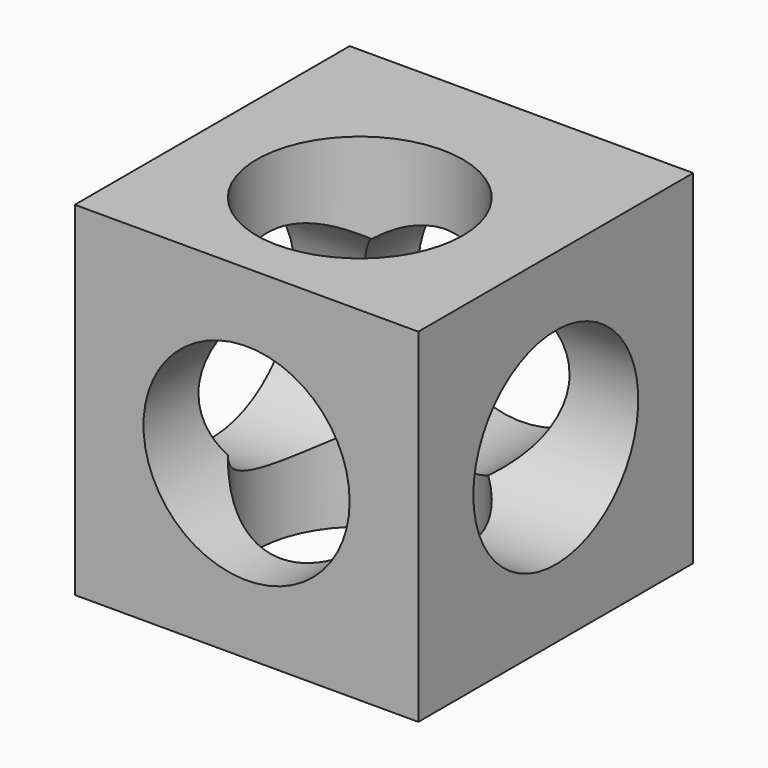
from build123d import *

# Parameters (mm, degrees)
F0_W     = 127
F0_H     = 127
F1_DEPTH = 127
F2_R     = 38.1
F3_DEPTH = 127.001
F4_R     = 38.1
F5_DEPTH = 127.001
F6_R     = 38.1
F7_DEPTH = 127.001


with BuildPart() as f1:
    # F0 (on Front) → F1 (new body)
    with BuildSketch(Plane.XZ):
        with Locations((2.085922, -10.94227)):
            Rectangle(F0_W, F0_H)
    extrude(amount=F1_DEPTH)

    # F2 (on face) → F3 (cut, through all)
    with BuildSketch(Plane.XZ.offset(127)):
        with Locations((2.085922, -10.94227)):
            Circle(F2_R)
    extrude(amount=-F3_DEPTH, mode=Mode.SUBTRACT)

    # F4 (on face) → F5 (cut, through all)
    with BuildSketch(Plane(origin=(-61.414078, 0, 0), x_dir=(0, -1, 0), z_dir=(-1, 0, 0))):
        with Locations((63.5, -10.94227)):
            Circle(F4_R)
    extrude(amount=-F5_DEPTH, mode=Mode.SUBTRACT)

    # F6 (on face) → F7 (cut, through all)
    with BuildSketch(Plane.XY.offset(52.55773)):
        with Locations((0, -72.084919)):
            Circle(F6_R)
    extrude(amount=-F7_DEPTH, mode=Mode.SUBTRACT)


solid = f1.part
